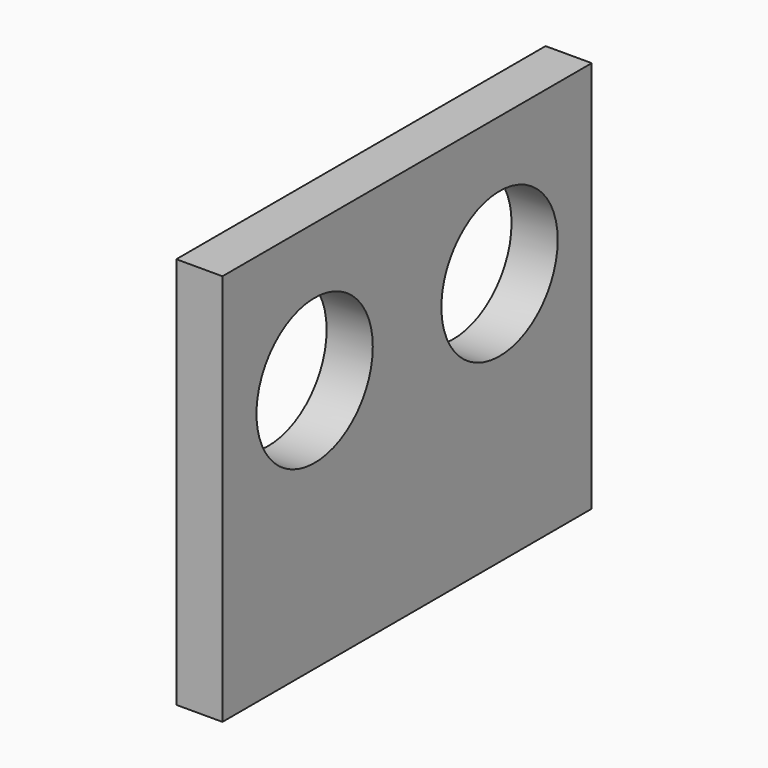
from build123d import *

# Parameters (mm, degrees)
F0_W     = 50.8
F0_H     = 43.18
F1_DEPTH = 5.08
F2_R     = 8.001
F3_DEPTH = 25.4


with BuildPart() as f1:
    # F0 (on Right) → F1 (new body)
    with BuildSketch(Plane.YZ):
        with Locations((11.160148, 3.366474)):
            Rectangle(F0_W, F0_H)
    extrude(amount=F1_DEPTH)

    # F2 (on face) → F3 (cut)
    with BuildSketch(Plane.YZ.offset(5.08)):
        with Locations((23.879198, 9.716474)):
            Circle(F2_R)
        with Locations((-1.558902, 9.716474)):
            Circle(F2_R)
    extrude(amount=-F3_DEPTH, mode=Mode.SUBTRACT)


solid = f1.part
